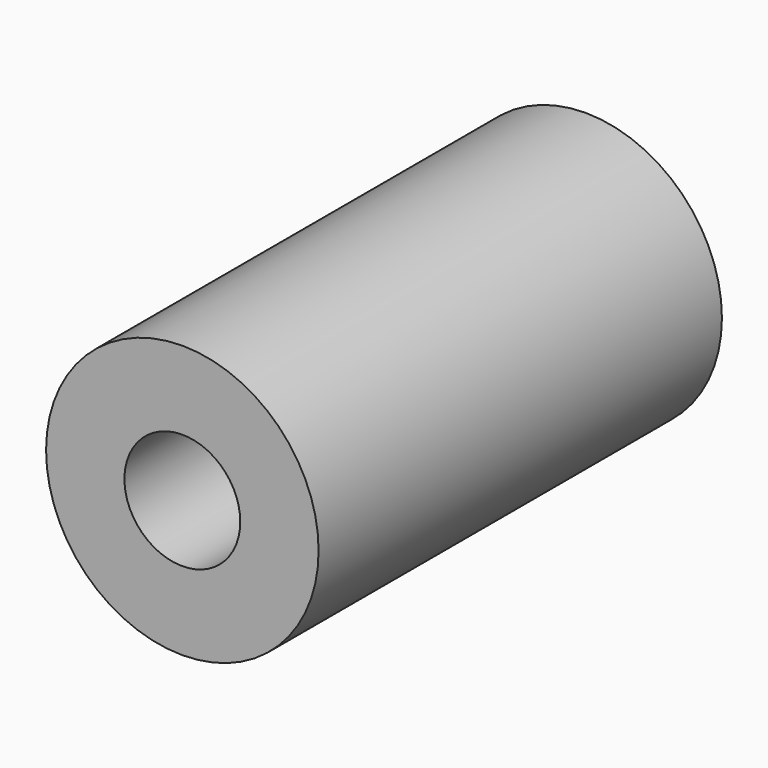
from build123d import *

# Parameters (mm, degrees)
F0_R     = 10
F1_DEPTH = 37
F2_R     = 4.25
F3_DEPTH = 37.001


with BuildPart() as f1:
    # F0 (on Front) → F1 (new body)
    with BuildSketch(Plane.XZ):
        Circle(F0_R)
    extrude(amount=-F1_DEPTH)

    # F2 (on face) → F3 (cut, through all)
    with BuildSketch(Plane.XZ):
        Circle(F2_R)
    extrude(amount=-F3_DEPTH, mode=Mode.SUBTRACT)


solid = f1.part
